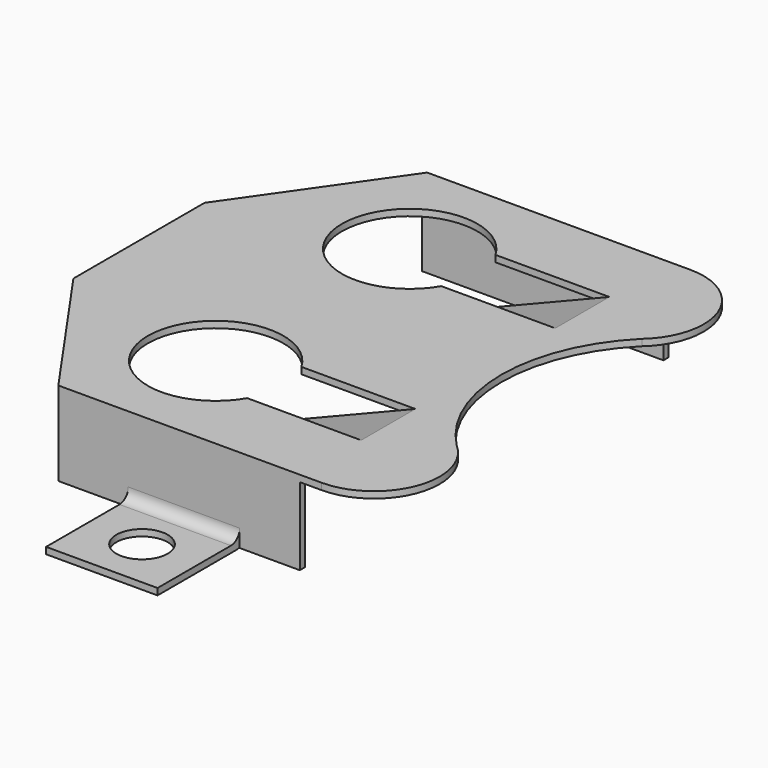
from build123d import *

# Parameters (mm, degrees)
PAD001_DEPTH    = 2.55
SKETCH_R        = 1.175
POCKET_DEPTH    = 0.301
PAD_DEPTH       = 0.3
POCKET001_DEPTH = 3.851
SKETCH004_W     = 0.3
SKETCH004_H     = 7.5
PAD002_DEPTH    = 3.3
FILLET_R        = 0.5
SKETCH005_W     = 11.05
SKETCH005_H     = 0.3
PAD003_DEPTH    = 3.55
PAD004_DEPTH    = 3.1
PAD005_DEPTH    = 0.3


with BuildPart() as part:
    # Sketch001 (on YZ_Plane of Origin) → Pad001 (new body, symmetric)
    with BuildSketch(Plane.YZ):
        with BuildLine():
            Line((15.25, 0), (10.75, 0))
            ThreePointArc((10.25, 0.5), (10.396447, 0.146447), (10.75, 0))
            Line((10.25, 0.5), (10.25, 3.05))
            ThreePointArc((10.25, 3.05), (10.103553, 3.403553), (9.75, 3.55))
            Line((9.75, 3.55), (-9.75, 3.55))
            ThreePointArc((-9.75, 3.55), (-10.103553, 3.403553), (-10.25, 3.05))
            Line((-10.25, 3.05), (-10.25, 0.5))
            ThreePointArc((-10.75, 0), (-10.396447, 0.146447), (-10.25, 0.5))
            Line((-10.75, 0), (-15.25, 0))
            Line((-15.25, 0), (-15.25, 0.3))
            Line((-15.25, 0.3), (-11.05, 0.3))
            ThreePointArc((-11.05, 0.3), (-10.696447, 0.446447), (-10.55, 0.8))
            Line((-10.55, 0.8), (-10.55, 3.85))
            Line((10.55, 3.85), (-10.55, 3.85))
            Line((10.55, 0.8), (10.55, 3.85))
            ThreePointArc((10.55, 0.8), (10.696447, 0.446447), (11.05, 0.3))
            Line((15.25, 0.3), (11.05, 0.3))
            Line((15.25, 0), (15.25, 0.3))
        make_face()
    extrude(amount=PAD001_DEPTH, both=True)

    # Sketch (on Face18 of Pad001) → Pocket (cut, through all)
    with BuildSketch(Plane.XY.offset(0.3)):
        with Locations((0, 12.95)):
            Circle(SKETCH_R)
        with Locations((0, -12.95)):
            Circle(SKETCH_R)
    extrude(amount=-POCKET_DEPTH, mode=Mode.SUBTRACT)

    # Sketch002 → Pad (join)
    with BuildSketch(Plane.XY.offset(3.85)):
        with BuildLine():
            Line((-5.75, 10.55), (-10.5, 3.75))
            Line((-10.5, 3.75), (-10.5, -3.75))
            Line((-5.75, -10.55), (-10.5, -3.75))
            Line((-5.75, -10.55), (6.3, -10.55))
            ThreePointArc((6.3, -10.55), (9.107984, -8.606042), (8.2769, -5.293484))
            ThreePointArc((8.2769, 5.293484), (6.09, 0), (8.2769, -5.293484))
            ThreePointArc((8.2769, 5.293484), (9.107984, 8.606042), (6.3, 10.55))
            Line((-5.75, 10.55), (6.3, 10.55))
        make_face()
    extrude(amount=-PAD_DEPTH)

    # Sketch003 (on Face30 of Pad) → Pocket001 (cut, through all)
    with BuildSketch(Plane.XY.offset(3.85)):
        with BuildLine():
            ThreePointArc((0.134679, 7.1), (-5.65, 5.55), (0.134679, 4))
            Line((5.35, 4), (0.134679, 4))
            Line((5.35, 7.1), (5.35, 4))
            Line((0.134679, 7.1), (5.35, 7.1))
        make_face()
        with BuildLine():
            ThreePointArc((0.134679, -4), (-5.65, -5.55), (0.134679, -7.1))
            Line((0.134679, -7.1), (5.35, -7.1))
            Line((5.35, -7.1), (5.35, -4))
            Line((5.35, -4), (0.134679, -4))
        make_face()
    extrude(amount=-POCKET001_DEPTH, mode=Mode.SUBTRACT)

    # Sketch004 (on Face11 of Pocket001) → Pad002 (join)
    with BuildSketch(Plane(origin=(0, 0, 3.55), x_dir=(1, 0, 0), z_dir=(0, 0, -1))):
        with Locations((-10.35, 0)):
            Rectangle(SKETCH004_W, SKETCH004_H)
    extrude(amount=PAD002_DEPTH)

    # Fillet
    fillet_edges = [part.edges().sort_by_distance(p)[0] for p in [
        (-10.2, 0, 3.55),
    ]]
    fillet(fillet_edges, radius=FILLET_R)

    # Sketch005 (on Face11 of Pocket001) → Pad003 (join)
    with BuildSketch(Plane(origin=(0, 0, 3.55), x_dir=(1, 0, 0), z_dir=(0, 0, -1))):
        with Locations((-0.225, 10.4)):
            Rectangle(SKETCH005_W, SKETCH005_H)
        with Locations((-0.225, -10.4)):
            Rectangle(SKETCH005_W, SKETCH005_H)
    extrude(amount=PAD003_DEPTH)

    # Sketch006 (on XZ_Plane of Origin) → Pad004 (join)
    with BuildSketch(Plane.XZ.offset(4)):
        Polygon((-0.85, 1.35), (5.35, 3.85), (5.35, 3.55), (-0.85, 1.05), align=None)
    pad004 = extrude(amount=PAD004_DEPTH)

    # Mirrored: Pad004 across XZ
    add(pad004.mirror(Plane.XZ))

    # Sketch007 (on XY_Plane of Origin) → Pad005 (join)
    with BuildSketch(Plane.XY.offset(1.05)):
        with BuildLine():
            Line((-0.85, 4), (-1.75, 4))
            ThreePointArc((-1.75, 4), (-3.3, 5.55), (-1.75, 7.1))
            Line((-1.75, 7.1), (-0.85, 7.1))
            Line((-0.85, 7.1), (-0.85, 4))
        make_face()
    pad005 = extrude(amount=PAD005_DEPTH)

    # Mirrored001: Pad005 across Sketch007 H_Axis
    add(pad005.mirror(Plane(origin=(0, 0, 1.05), x_dir=(0, 0, 1), z_dir=(0, 1, 0))))


solid = part.part
